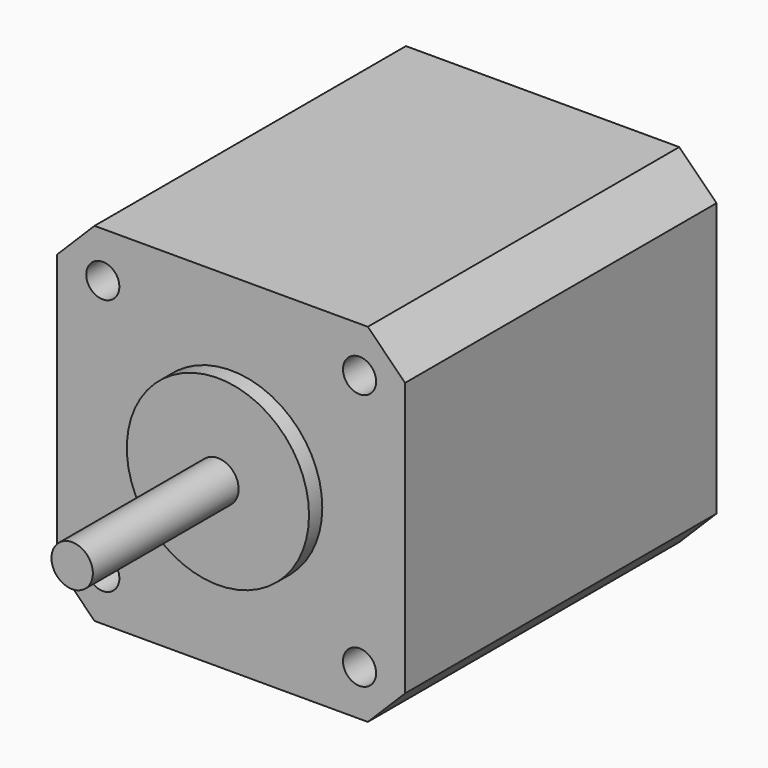
from build123d import *

# Parameters (mm, degrees)
F0_R     = 2.5
F3_DEPTH = 24
F1_R     = 11
F4_DEPTH = 2
F5_DEPTH = 47
F7_D     = 4


with BuildPart() as f3:
    # F0 (on Front) → F3 (new body)
    with BuildSketch(Plane.XZ):
        Circle(F0_R)
    extrude(amount=F3_DEPTH)

    # F1 (on Front) → F4 (join)
    with BuildSketch(Plane.XZ):
        Circle(F1_R)
    extrude(amount=F4_DEPTH)

    # F2 (on Front) → F5 (join)
    with BuildSketch(Plane.XZ):
        Polygon((21, 16.5), (16.5, 21), (-16.5, 21), (-21, 16.5), (-21, -16.5), (-16.5, -21), (16.5, -21), (21, -16.5), align=None)
    extrude(amount=-F5_DEPTH)

    # F7 (through all)
    with Locations(Plane.XZ):
        with Locations((-15.5, 15.5), (15.5, 15.5), (15.5, -15.5), (-15.5, -15.5)):
            Hole(F7_D / 2)


solid = f3.part
